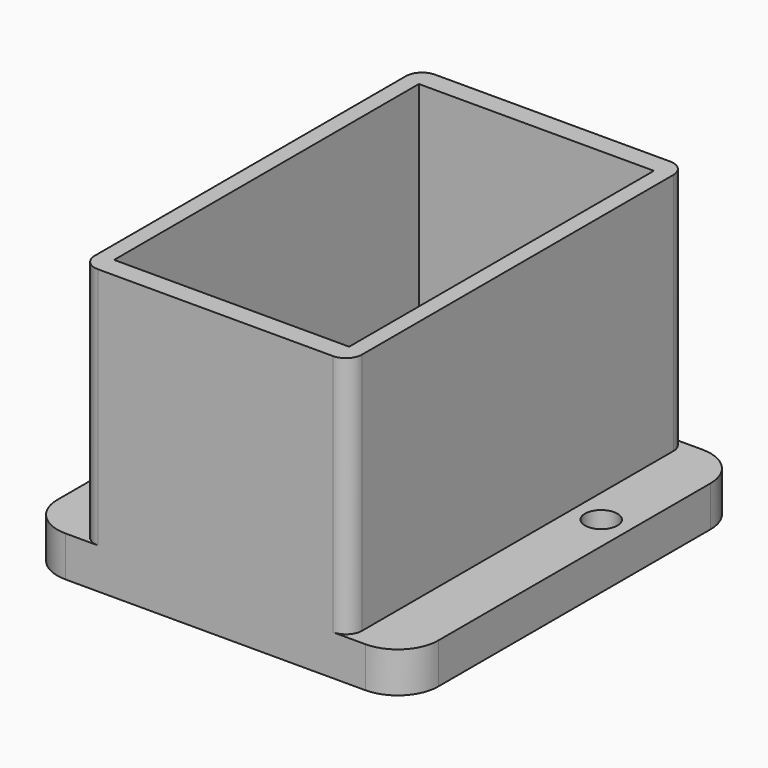
from build123d import *

# Parameters (mm, degrees)
F0_W     = 7
F0_H     = 52
F0_R     = 2
F1_DEPTH = 5
F0_W_2   = 33
F0_W_3   = 29
F0_H_2   = 47
F2_DEPTH = 35
F3_DEPTH = 5
F4_R     = 5
F5_R     = 2


with BuildPart() as f1:
    # F0 (on Top) → F1 (new body)
    with BuildSketch(Plane.XY):
        with Locations((-20, 0)):
            Rectangle(F0_W, F0_H)
        with Locations((-20, 8.5)):
            Circle(F0_R, mode=Mode.SUBTRACT)
    extrude(amount=F1_DEPTH)

    # F0 (on Top) → F2 (join)
    with BuildSketch(Plane.XY):
        Rectangle(F0_W_2, F0_H)
        Rectangle(F0_W_3, F0_H_2, mode=Mode.SUBTRACT)
    extrude(amount=F2_DEPTH)

    # F0 (on Top) → F3 (join)
    with BuildSketch(Plane.XY):
        with Locations((20, 0)):
            Rectangle(F0_W, F0_H)
        with Locations((20, 8.5)):
            Circle(F0_R, mode=Mode.SUBTRACT)
    extrude(amount=F3_DEPTH)

    # F4
    f4_edges = [f1.edges().sort_by_distance(p)[0] for p in [
        (-23.5, -26, 2.5),
        (23.5, -26, 2.5),
        (23.5, 26, 2.5),
        (-23.5, 26, 2.5),
    ]]
    fillet(f4_edges, radius=F4_R)

    # F5
    f5_edges = [f1.edges().sort_by_distance(p)[0] for p in [
        (-16.5, -26, 20),
        (16.5, -26, 20),
        (16.5, 26, 20),
        (-16.5, 26, 20),
    ]]
    fillet(f5_edges, radius=F5_R)


solid = f1.part
